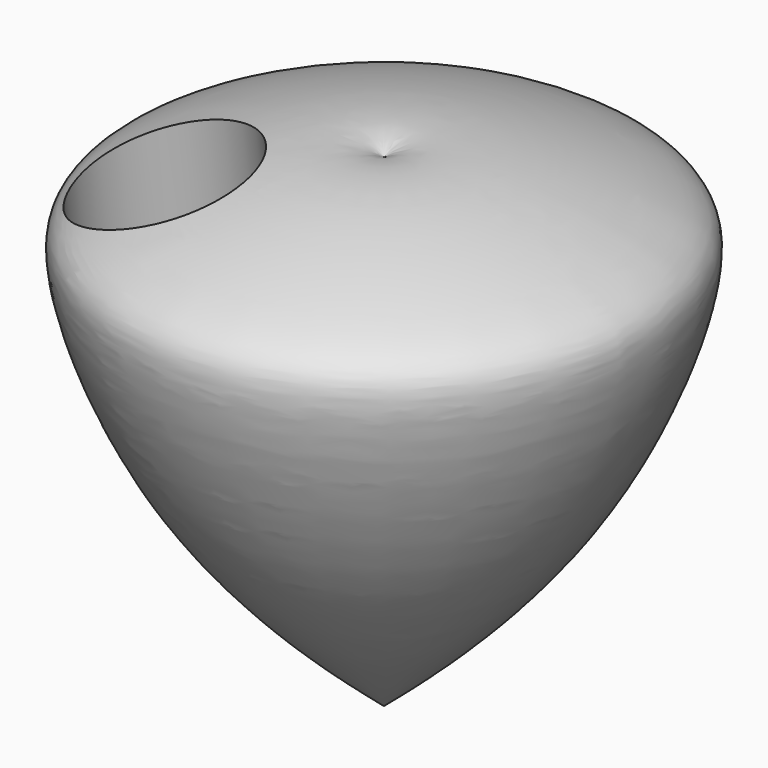
from build123d import *

# Parameters (mm, degrees)
F5_R     = 25.7447150133
F6_DEPTH = 74


with BuildPart() as f1:
    # F0 (on Front) → F1 (revolve)
    with BuildSketch(Plane.XZ):
        with BuildLine():
            Line((0, 8.8538769633), (0, -73.2201561332))
            add(Edge.make_bspline(
                [(0, 79.9659788609), (13.0921748881, 89.4095051462), (78.3160383976, 71.229726345), (87.5568353127, 53.0074119966), (63.6429372286, -14.804064045), (22.2891697012, -54.4218908757), (0, -73.2201561332)],
                knots=[0, 0, 0, 0, 0.2844418422, 0.4243878521, 0.6884860909, 1, 1, 1, 1], degree=3))
            Line((0, 79.9659788609), (0, 8.8538769633))
        make_face()
    revolve(axis=Axis((0, 0, 1.1243037879), (0, 0, -1)))

    # F5 (on line) → F6 (cut)
    with BuildSketch(Plane(origin=(0, -16.0781011914, 117.7037631854), x_dir=(1, 0, 0), z_dir=(0, -0.1353411904, 0.9907990524))):
        with Locations((-43.7681786716, -21.9699461013)):
            Circle(F5_R)
    extrude(amount=-F6_DEPTH, mode=Mode.SUBTRACT)


solid = f1.part
